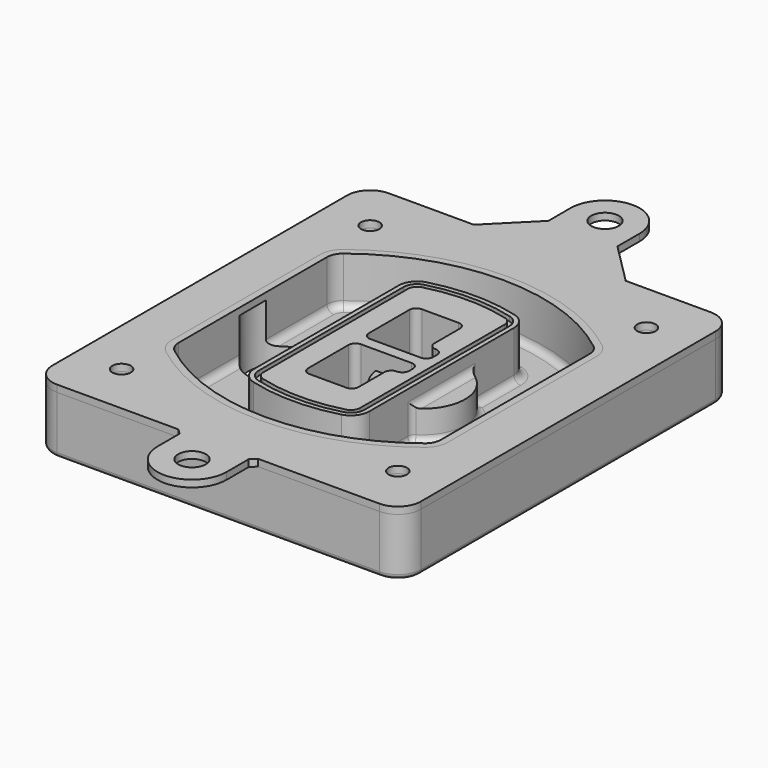
from build123d import *

# Parameters (mm, degrees)
F0_R      = 4
F1_DEPTH  = 25
F2_DEPTH  = 3
F3_DEPTH  = 18
F5_DEPTH  = 21
F6_DEPTH  = 2
F8_DEPTH  = 20
F9_DEPTH  = 16
F10_DEPTH = 25
F7_R      = 6
F7_R_2    = 4
F11_DEPTH = 6
F13_DEPTH = 9
F14_R     = 3
F15_R     = 2
F16_R     = 6
F16_R_2   = 4
F17_DEPTH = 3


with BuildPart() as f1:
    # F0 (on Top) → F1 (new body)
    with BuildSketch(Plane.XY):
        with BuildLine():
            ThreePointArc((-80, -80), (-77.0710678119, -87.0710678119), (-70, -90))
            Line((-70, -90), (70, -90))
            ThreePointArc((70, -90), (77.0710678119, -87.0710678119), (80, -80))
            Line((80, -80), (80, 80))
            ThreePointArc((80, 80), (77.0710678119, 87.0710678119), (70, 90))
            Line((70, 90), (-70, 90))
            ThreePointArc((-70, 90), (-77.0710678119, 87.0710678119), (-80, 80))
            Line((-80, 80), (-80, -80))
        make_face()
        with Locations((-60, -67.5)):
            Circle(F0_R, mode=Mode.SUBTRACT)
        with Locations((60, -67.5)):
            Circle(F0_R, mode=Mode.SUBTRACT)
        with Locations((-60, 67.5)):
            Circle(F0_R, mode=Mode.SUBTRACT)
        with BuildLine():
            ThreePointArc((-64, 40.2934422872), (-62.5820384798, 46.4328484224), (-58.6153846154, 51.3286200352))
            ThreePointArc((-58.6153846154, 51.3286200352), (0, 71.5), (58.6153846154, 51.3286200352))
            ThreePointArc((58.6153846154, 51.3286200352), (62.5820384798, 46.4328484224), (64, 40.2934422872))
            Line((64, 40.2934422872), (64, -40.2934422872))
            ThreePointArc((64, -40.2934422872), (62.5820384798, -46.4328484224), (58.6153846154, -51.3286200352))
            ThreePointArc((58.6153846154, -51.3286200352), (0, -71.5), (-58.6153846154, -51.3286200352))
            ThreePointArc((-58.6153846154, -51.3286200352), (-62.5820384798, -46.4328484224), (-64, -40.2934422872))
            Line((-64, -40.2934422872), (-64, 40.2934422872))
        make_face(mode=Mode.SUBTRACT)
        with Locations((60, 67.5)):
            Circle(F0_R, mode=Mode.SUBTRACT)
        with BuildLine():
            ThreePointArc((58.6153846154, 51.3286200352), (0, 71.5), (-58.6153846154, 51.3286200352))
            ThreePointArc((-58.6153846154, 51.3286200352), (-62.5820384798, 46.4328484224), (-64, 40.2934422872))
            Line((-64, 40.2934422872), (-64, -40.2934422872))
            ThreePointArc((-64, -40.2934422872), (-62.5820384798, -46.4328484224), (-58.6153846154, -51.3286200352))
            ThreePointArc((-58.6153846154, -51.3286200352), (0, -71.5), (58.6153846154, -51.3286200352))
            ThreePointArc((58.6153846154, -51.3286200352), (62.5820384798, -46.4328484224), (64, -40.2934422872))
            Line((64, -40.2934422872), (64, 40.2934422872))
            ThreePointArc((64, 40.2934422872), (62.5820384798, 46.4328484224), (58.6153846154, 51.3286200352))
        make_face()
        with BuildLine():
            Line((-60, -40.2934422872), (-60, 40.2934422872))
            ThreePointArc((-60, 40.2934422872), (-58.9871703427, 44.6787323838), (-56.1538461538, 48.1757121072))
            ThreePointArc((-56.1538461538, 48.1757121072), (0, 67.5), (56.1538461538, 48.1757121072))
            ThreePointArc((56.1538461538, 48.1757121072), (58.9871703427, 44.6787323838), (60, 40.2934422872))
            Line((60, 40.2934422872), (60, -40.2934422872))
            ThreePointArc((60, -40.2934422872), (58.9871703427, -44.6787323838), (56.1538461538, -48.1757121072))
            ThreePointArc((56.1538461538, -48.1757121072), (0, -67.5), (-56.1538461538, -48.1757121072))
            ThreePointArc((-56.1538461538, -48.1757121072), (-58.9871703427, -44.6787323838), (-60, -40.2934422872))
        make_face(mode=Mode.SUBTRACT)
        with BuildLine():
            ThreePointArc((-56.1538461538, 48.1757121072), (-58.9871703427, 44.6787323838), (-60, 40.2934422872))
            Line((-60, 40.2934422872), (-60, -40.2934422872))
            ThreePointArc((-60, -40.2934422872), (-58.9871703427, -44.6787323838), (-56.1538461538, -48.1757121072))
            ThreePointArc((-56.1538461538, -48.1757121072), (0, -67.5), (56.1538461538, -48.1757121072))
            ThreePointArc((56.1538461538, -48.1757121072), (58.9871703427, -44.6787323838), (60, -40.2934422872))
            Line((60, -40.2934422872), (60, 40.2934422872))
            ThreePointArc((60, 40.2934422872), (58.9871703427, 44.6787323838), (56.1538461538, 48.1757121072))
            ThreePointArc((56.1538461538, 48.1757121072), (0, 67.5), (-56.1538461538, 48.1757121072))
        make_face()
        with BuildLine():
            ThreePointArc((54.3076923077, 45.8110311612), (56.2910192399, 43.3631453548), (57, 40.2934422872))
            Line((57, 40.2934422872), (57, -40.2934422872))
            ThreePointArc((57, -40.2934422872), (56.2910192399, -43.3631453548), (54.3076923077, -45.8110311612))
            ThreePointArc((54.3076923077, -45.8110311612), (0, -64.5), (-54.3076923077, -45.8110311612))
            ThreePointArc((-54.3076923077, -45.8110311612), (-56.2910192399, -43.3631453548), (-57, -40.2934422872))
            Line((-57, -40.2934422872), (-57, 40.2934422872))
            ThreePointArc((-57, 40.2934422872), (-56.2910192399, 43.3631453548), (-54.3076923077, 45.8110311612))
            ThreePointArc((-54.3076923077, 45.8110311612), (0, 64.5), (54.3076923077, 45.8110311612))
        make_face(mode=Mode.SUBTRACT)
        with BuildLine():
            Line((57, -40.2934422872), (57, 40.2934422872))
            ThreePointArc((57, 40.2934422872), (56.2910192399, 43.3631453548), (54.3076923077, 45.8110311612))
            ThreePointArc((54.3076923077, 45.8110311612), (0, 64.5), (-54.3076923077, 45.8110311612))
            ThreePointArc((-54.3076923077, 45.8110311612), (-56.2910192399, 43.3631453548), (-57, 40.2934422872))
            Line((-57, 40.2934422872), (-57, -40.2934422872))
            ThreePointArc((-57, -40.2934422872), (-56.2910192399, -43.3631453548), (-54.3076923077, -45.8110311612))
            ThreePointArc((-54.3076923077, -45.8110311612), (0, -64.5), (54.3076923077, -45.8110311612))
            ThreePointArc((54.3076923077, -45.8110311612), (56.2910192399, -43.3631453548), (57, -40.2934422872))
        make_face()
    extrude(amount=-F1_DEPTH)

    # F0 (on Top) → F2 (join)
    with BuildSketch(Plane.XY):
        with BuildLine():
            ThreePointArc((-56.1538461538, 48.1757121072), (-58.9871703427, 44.6787323838), (-60, 40.2934422872))
            Line((-60, 40.2934422872), (-60, -40.2934422872))
            ThreePointArc((-60, -40.2934422872), (-58.9871703427, -44.6787323838), (-56.1538461538, -48.1757121072))
            ThreePointArc((-56.1538461538, -48.1757121072), (0, -67.5), (56.1538461538, -48.1757121072))
            ThreePointArc((56.1538461538, -48.1757121072), (58.9871703427, -44.6787323838), (60, -40.2934422872))
            Line((60, -40.2934422872), (60, 40.2934422872))
            ThreePointArc((60, 40.2934422872), (58.9871703427, 44.6787323838), (56.1538461538, 48.1757121072))
            ThreePointArc((56.1538461538, 48.1757121072), (0, 67.5), (-56.1538461538, 48.1757121072))
        make_face()
        with BuildLine():
            ThreePointArc((54.3076923077, 45.8110311612), (56.2910192399, 43.3631453548), (57, 40.2934422872))
            Line((57, 40.2934422872), (57, -40.2934422872))
            ThreePointArc((57, -40.2934422872), (56.2910192399, -43.3631453548), (54.3076923077, -45.8110311612))
            ThreePointArc((54.3076923077, -45.8110311612), (0, -64.5), (-54.3076923077, -45.8110311612))
            ThreePointArc((-54.3076923077, -45.8110311612), (-56.2910192399, -43.3631453548), (-57, -40.2934422872))
            Line((-57, -40.2934422872), (-57, 40.2934422872))
            ThreePointArc((-57, 40.2934422872), (-56.2910192399, 43.3631453548), (-54.3076923077, 45.8110311612))
            ThreePointArc((-54.3076923077, 45.8110311612), (0, 64.5), (54.3076923077, 45.8110311612))
        make_face(mode=Mode.SUBTRACT)
    extrude(amount=F2_DEPTH)

    # F0 (on Top) → F3 (cut)
    with BuildSketch(Plane.XY):
        with BuildLine():
            Line((57, -40.2934422872), (57, 40.2934422872))
            ThreePointArc((57, 40.2934422872), (56.2910192399, 43.3631453548), (54.3076923077, 45.8110311612))
            ThreePointArc((54.3076923077, 45.8110311612), (0, 64.5), (-54.3076923077, 45.8110311612))
            ThreePointArc((-54.3076923077, 45.8110311612), (-56.2910192399, 43.3631453548), (-57, 40.2934422872))
            Line((-57, 40.2934422872), (-57, -40.2934422872))
            ThreePointArc((-57, -40.2934422872), (-56.2910192399, -43.3631453548), (-54.3076923077, -45.8110311612))
            ThreePointArc((-54.3076923077, -45.8110311612), (0, -64.5), (54.3076923077, -45.8110311612))
            ThreePointArc((54.3076923077, -45.8110311612), (56.2910192399, -43.3631453548), (57, -40.2934422872))
        make_face()
    extrude(amount=-F3_DEPTH, mode=Mode.SUBTRACT)

    # F4 (on face) → F5 (join, through all)
    with BuildSketch(Plane.XY.offset(3)):
        with BuildLine():
            ThreePointArc((-25, -39.2465276821), (-23.3511545998, -44.1109737193), (-19.0842911877, -46.9702398883))
            ThreePointArc((-19.0842911877, -46.9702398883), (0, -49.5), (19.0842911877, -46.9702398883))
            ThreePointArc((19.0842911877, -46.9702398883), (23.3511545998, -44.1109737193), (25, -39.2465276821))
            Line((25, -39.2465276821), (25, 39.2465276821))
            ThreePointArc((25, 39.2465276821), (23.3511545998, 44.1109737193), (19.0842911877, 46.9702398883))
            ThreePointArc((19.0842911877, 46.9702398883), (0, 49.5), (-19.0842911877, 46.9702398883))
            ThreePointArc((-19.0842911877, 46.9702398883), (-23.3511545998, 44.1109737193), (-25, 39.2465276821))
            Line((-25, 39.2465276821), (-25, -39.2465276821))
        make_face()
        with BuildLine():
            ThreePointArc((18.5632183908, 45.0393118368), (21.7633659499, 42.89486221), (23, 39.2465276821))
            Line((23, 39.2465276821), (23, -39.2465276821))
            ThreePointArc((23, -39.2465276821), (21.7633659499, -42.89486221), (18.5632183908, -45.0393118368))
            ThreePointArc((18.5632183908, -45.0393118368), (0, -47.5), (-18.5632183908, -45.0393118368))
            ThreePointArc((-18.5632183908, -45.0393118368), (-21.7633659499, -42.89486221), (-23, -39.2465276821))
            Line((-23, -39.2465276821), (-23, 39.2465276821))
            ThreePointArc((-23, 39.2465276821), (-21.7633659499, 42.89486221), (-18.5632183908, 45.0393118368))
            ThreePointArc((-18.5632183908, 45.0393118368), (0, 47.5), (18.5632183908, 45.0393118368))
        make_face(mode=Mode.SUBTRACT)
        with BuildLine():
            Line((23, -39.2465276821), (23, 39.2465276821))
            ThreePointArc((23, 39.2465276821), (21.7633659499, 42.89486221), (18.5632183908, 45.0393118368))
            ThreePointArc((18.5632183908, 45.0393118368), (0, 47.5), (-18.5632183908, 45.0393118368))
            ThreePointArc((-18.5632183908, 45.0393118368), (-21.7633659499, 42.89486221), (-23, 39.2465276821))
            Line((-23, 39.2465276821), (-23, -39.2465276821))
            ThreePointArc((-23, -39.2465276821), (-21.7633659499, -42.89486221), (-18.5632183908, -45.0393118368))
            ThreePointArc((-18.5632183908, -45.0393118368), (0, -47.5), (18.5632183908, -45.0393118368))
            ThreePointArc((18.5632183908, -45.0393118368), (21.7633659499, -42.89486221), (23, -39.2465276821))
        make_face()
        with BuildLine():
            ThreePointArc((18.0421455939, 43.1083837852), (20.1755772999, 41.6787507007), (21, 39.2465276821))
            Line((21, 39.2465276821), (21, -39.2465276821))
            ThreePointArc((21, -39.2465276821), (20.1755772999, -41.6787507007), (18.0421455939, -43.1083837852))
            ThreePointArc((18.0421455939, -43.1083837852), (0, -45.5), (-18.0421455939, -43.1083837852))
            ThreePointArc((-18.0421455939, -43.1083837852), (-20.1755772999, -41.6787507007), (-21, -39.2465276821))
            Line((-21, -39.2465276821), (-21, 39.2465276821))
            ThreePointArc((-21, 39.2465276821), (-20.1755772999, 41.6787507007), (-18.0421455939, 43.1083837852))
            ThreePointArc((-18.0421455939, 43.1083837852), (0, 45.5), (18.0421455939, 43.1083837852))
        make_face(mode=Mode.SUBTRACT)
        with BuildLine():
            Line((21, -39.2465276821), (21, 39.2465276821))
            ThreePointArc((21, 39.2465276821), (20.1755772999, 41.6787507007), (18.0421455939, 43.1083837852))
            ThreePointArc((18.0421455939, 43.1083837852), (0, 45.5), (-18.0421455939, 43.1083837852))
            ThreePointArc((-18.0421455939, 43.1083837852), (-20.1755772999, 41.6787507007), (-21, 39.2465276821))
            Line((-21, 39.2465276821), (-21, -39.2465276821))
            ThreePointArc((-21, -39.2465276821), (-20.1755772999, -41.6787507007), (-18.0421455939, -43.1083837852))
            ThreePointArc((-18.0421455939, -43.1083837852), (0, -45.5), (18.0421455939, -43.1083837852))
            ThreePointArc((18.0421455939, -43.1083837852), (20.1755772999, -41.6787507007), (21, -39.2465276821))
        make_face()
        with BuildLine():
            Line((-8, -2.5), (14, -2.5))
            ThreePointArc((14, -2.5), (16.1213203436, -3.3786796564), (17, -5.5))
            Line((17, -5.5), (17, -7.5))
            ThreePointArc((17, -7.5), (16.1213203436, -9.6213203436), (14, -10.5))
            ThreePointArc((14, -10.5), (11.8786796564, -11.3786796564), (11, -13.5))
            Line((11, -13.5), (11, -27.5))
            ThreePointArc((11, -27.5), (10.1213203436, -29.6213203436), (8, -30.5))
            Line((8, -30.5), (-8, -30.5))
            ThreePointArc((-8, -30.5), (-10.1213203436, -29.6213203436), (-11, -27.5))
            Line((-11, -27.5), (-11, -5.5))
            ThreePointArc((-11, -5.5), (-10.1213203436, -3.3786796564), (-8, -2.5))
        make_face(mode=Mode.SUBTRACT)
        with BuildLine():
            ThreePointArc((-8, 2.5), (-10.1213203436, 3.3786796564), (-11, 5.5))
            Line((-11, 5.5), (-11, 27.5))
            ThreePointArc((-11, 27.5), (-10.1213203436, 29.6213203436), (-8, 30.5))
            Line((-8, 30.5), (8, 30.5))
            ThreePointArc((8, 30.5), (10.1213203436, 29.6213203436), (11, 27.5))
            Line((11, 27.5), (11, 13.5))
            ThreePointArc((11, 13.5), (11.8786796564, 11.3786796564), (14, 10.5))
            ThreePointArc((14, 10.5), (16.1213203436, 9.6213203436), (17, 7.5))
            Line((17, 7.5), (17, 5.5))
            ThreePointArc((17, 5.5), (16.1213203436, 3.3786796564), (14, 2.5))
            Line((14, 2.5), (-8, 2.5))
        make_face(mode=Mode.SUBTRACT)
    extrude(amount=-F5_DEPTH)

    # F4 (on face) → F6 (cut)
    with BuildSketch(Plane.XY.offset(3)):
        with BuildLine():
            Line((23, -39.2465276821), (23, 39.2465276821))
            ThreePointArc((23, 39.2465276821), (21.7633659499, 42.89486221), (18.5632183908, 45.0393118368))
            ThreePointArc((18.5632183908, 45.0393118368), (0, 47.5), (-18.5632183908, 45.0393118368))
            ThreePointArc((-18.5632183908, 45.0393118368), (-21.7633659499, 42.89486221), (-23, 39.2465276821))
            Line((-23, 39.2465276821), (-23, -39.2465276821))
            ThreePointArc((-23, -39.2465276821), (-21.7633659499, -42.89486221), (-18.5632183908, -45.0393118368))
            ThreePointArc((-18.5632183908, -45.0393118368), (0, -47.5), (18.5632183908, -45.0393118368))
            ThreePointArc((18.5632183908, -45.0393118368), (21.7633659499, -42.89486221), (23, -39.2465276821))
        make_face()
        with BuildLine():
            ThreePointArc((18.0421455939, 43.1083837852), (20.1755772999, 41.6787507007), (21, 39.2465276821))
            Line((21, 39.2465276821), (21, -39.2465276821))
            ThreePointArc((21, -39.2465276821), (20.1755772999, -41.6787507007), (18.0421455939, -43.1083837852))
            ThreePointArc((18.0421455939, -43.1083837852), (0, -45.5), (-18.0421455939, -43.1083837852))
            ThreePointArc((-18.0421455939, -43.1083837852), (-20.1755772999, -41.6787507007), (-21, -39.2465276821))
            Line((-21, -39.2465276821), (-21, 39.2465276821))
            ThreePointArc((-21, 39.2465276821), (-20.1755772999, 41.6787507007), (-18.0421455939, 43.1083837852))
            ThreePointArc((-18.0421455939, 43.1083837852), (0, 45.5), (18.0421455939, 43.1083837852))
        make_face(mode=Mode.SUBTRACT)
    extrude(amount=-F6_DEPTH, mode=Mode.SUBTRACT)

    # F7 (on face) → F8 (join)
    with BuildSketch(Plane(origin=(0, 0, -25), x_dir=(1, 0, 0), z_dir=(0, 0, -1))):
        with BuildLine():
            ThreePointArc((3.28842436, 0), (16.7567035675, 13.4682792075), (30.224982775, 0))
            Line((30.224982775, 0), (35.224982775, 0))
            ThreePointArc((35.224982775, 0), (16.7567035675, 18.4682792075), (-1.71157564, 0))
            Line((-1.71157564, 0), (3.28842436, 0))
        make_face()
        with BuildLine():
            Line((3.28842436, 0), (30.224982775, 0))
            ThreePointArc((30.224982775, 0), (16.7567035675, 13.4682792075), (3.28842436, 0))
        make_face()
        with BuildLine():
            ThreePointArc((3.28842436, 0), (16.7567035675, -13.4682792075), (30.224982775, 0))
            Line((30.224982775, 0), (3.28842436, 0))
        make_face()
        with BuildLine():
            Line((35.224982775, 0), (30.224982775, 0))
            ThreePointArc((30.224982775, 0), (16.7567035675, -13.4682792075), (3.28842436, 0))
            Line((3.28842436, 0), (-1.71157564, 0))
            ThreePointArc((-1.71157564, 0), (16.7567035675, -18.4682792075), (35.224982775, 0))
        make_face()
    extrude(amount=-F8_DEPTH)

    # F7 (on face) → F9 (cut)
    with BuildSketch(Plane(origin=(0, 0, -25), x_dir=(1, 0, 0), z_dir=(0, 0, -1))):
        with BuildLine():
            Line((3.28842436, 0), (30.224982775, 0))
            ThreePointArc((30.224982775, 0), (16.7567035675, 13.4682792075), (3.28842436, 0))
        make_face()
        with BuildLine():
            ThreePointArc((3.28842436, 0), (16.7567035675, -13.4682792075), (30.224982775, 0))
            Line((30.224982775, 0), (3.28842436, 0))
        make_face()
    extrude(amount=-F9_DEPTH, mode=Mode.SUBTRACT)

    # F7 (on face) → F10 (cut)
    with BuildSketch(Plane(origin=(0, 0, -25), x_dir=(1, 0, 0), z_dir=(0, 0, -1))):
        with BuildLine():
            Line((-59.0318229325, 0), (-32.0952645175, 0))
            ThreePointArc((-32.0952645175, 0), (-45.563543725, 13.4682792075), (-59.0318229325, 0))
        make_face()
        with BuildLine():
            ThreePointArc((-59.0318229325, 0), (-45.563543725, -13.4682792075), (-32.0952645175, 0))
            Line((-32.0952645175, 0), (-59.0318229325, 0))
        make_face()
    extrude(amount=-F10_DEPTH, mode=Mode.SUBTRACT)

    # F7 (on face) → F11 (cut)
    with BuildSketch(Plane(origin=(0, 0, -25), x_dir=(1, 0, 0), z_dir=(0, 0, -1))):
        with Locations((60, -67.5)):
            Circle(F7_R)
        with Locations((60, -67.5)):
            Circle(F7_R_2, mode=Mode.SUBTRACT)
        with Locations((60, -67.5)):
            Circle(F7_R)
        with Locations((60, -67.5)):
            Circle(F7_R_2, mode=Mode.SUBTRACT)
        with Locations((-60, -67.5)):
            Circle(F7_R)
        with Locations((-60, -67.5)):
            Circle(F7_R_2, mode=Mode.SUBTRACT)
        with Locations((-60, -67.5)):
            Circle(F7_R)
        with Locations((-60, -67.5)):
            Circle(F7_R_2, mode=Mode.SUBTRACT)
        with Locations((-60, 67.5)):
            Circle(F7_R)
        with Locations((-60, 67.5)):
            Circle(F7_R_2, mode=Mode.SUBTRACT)
        with Locations((-60, 67.5)):
            Circle(F7_R)
        with Locations((-60, 67.5)):
            Circle(F7_R_2, mode=Mode.SUBTRACT)
        with Locations((60, 67.5)):
            Circle(F7_R)
        with Locations((60, 67.5)):
            Circle(F7_R_2, mode=Mode.SUBTRACT)
        with Locations((60, 67.5)):
            Circle(F7_R)
        with Locations((60, 67.5)):
            Circle(F7_R_2, mode=Mode.SUBTRACT)
    extrude(amount=-F11_DEPTH, mode=Mode.SUBTRACT)

    # F12 (on face) → F13 (cut, through all)
    with BuildSketch(Plane(origin=(0, 0, -9), x_dir=(1, 0, 0), z_dir=(0, 0, -1))):
        with BuildLine():
            Line((11, 13.5), (11, 17.5481537753))
            ThreePointArc((11, 17.5481537753), (2.5696536419, 11.8239143813), (-1.5415842455, 2.5))
            Line((-1.5415842455, 2.5), (3.5224848595, 2.5))
            ThreePointArc((3.5224848595, 2.5), (6.1857188154, 8.3455872281), (11.2536447004, 12.2927168648))
            ThreePointArc((11.2536447004, 12.2927168648), (11.0640958889, 12.8831798879), (11, 13.5))
        make_face()
        with BuildLine():
            ThreePointArc((11.2536447004, -12.2927168648), (6.1857188154, -8.3455872281), (3.5224848595, -2.5))
            Line((3.5224848595, -2.5), (-1.5415842455, -2.5))
            ThreePointArc((-1.5415842455, -2.5), (2.5696536419, -11.8239143813), (11, -17.5481537753))
            Line((11, -17.5481537753), (11, -13.5))
            ThreePointArc((11, -13.5), (11.0640958889, -12.8831798879), (11.2536447004, -12.2927168648))
        make_face()
        with BuildLine():
            ThreePointArc((11.2536447004, 12.2927168648), (6.1857188154, 8.3455872281), (3.5224848595, 2.5))
            Line((3.5224848595, 2.5), (14, 2.5))
            ThreePointArc((14, 2.5), (16.1213203436, 3.3786796564), (17, 5.5))
            Line((17, 5.5), (17, 7.5))
            ThreePointArc((17, 7.5), (16.1213203436, 9.6213203436), (14, 10.5))
            ThreePointArc((14, 10.5), (12.3601599782, 10.9878446101), (11.2536447004, 12.2927168648))
        make_face()
        with BuildLine():
            Line((14, -2.5), (3.5224848595, -2.5))
            ThreePointArc((3.5224848595, -2.5), (6.1857188154, -8.3455872281), (11.2536447004, -12.2927168648))
            ThreePointArc((11.2536447004, -12.2927168648), (12.3601599782, -10.9878446101), (14, -10.5))
            ThreePointArc((14, -10.5), (16.1213203436, -9.6213203436), (17, -7.5))
            Line((17, -7.5), (17, -5.5))
            ThreePointArc((17, -5.5), (16.1213203436, -3.3786796564), (14, -2.5))
        make_face()
    extrude(amount=F13_DEPTH, mode=Mode.SUBTRACT)

    # F14
    f14_edges = [f1.edges().sort_by_distance(p)[0] for p in [
        (-57, -23.703476, -18),
        (-57, 23.703476, -18),
        (25, 0, -5),
        (25, 16.526506, -11.5),
        (25, -16.526506, -11.5),
        (25, -27.886517, -18),
        (35.224983, 0, -18),
    ]]
    fillet(f14_edges, radius=F14_R)

    # F15
    f15_edges = [f1.edges().sort_by_distance(p)[0] for p in [
        (0, -90, -25),
    ]]
    fillet(f15_edges, radius=F15_R)


with BuildPart() as f17:
    # F16 (on face) → F17 (new body, through all)
    with BuildSketch(Plane.XY):
        with BuildLine():
            Line((-14.9998761609, 108), (-32.9998761609, 90))
            Line((-32.9998761609, 90), (33, 90))
            Line((33, 90), (15, 108))
            Line((15, 108), (15, 120))
            ThreePointArc((15, 120), (-0.0304761119, 134.9999690402), (-14.9998761609, 119.939047902))
            Line((-14.9998761609, 119.939047902), (-14.9998761609, 108))
        make_face()
        with Locations((0, 120)):
            Circle(F16_R, mode=Mode.SUBTRACT)
        with BuildLine():
            Line((33, 90), (-32.9998761609, 90))
            Line((-32.9998761609, 90), (-70, 90))
            ThreePointArc((-70, 90), (-77.0710678119, 87.0710678119), (-80, 80))
            Line((-80, 80), (-80, -80))
            ThreePointArc((-80, -80), (-77.0710678119, -87.0710678119), (-70, -90))
            Line((-70, -90), (-17.2498761609, -90))
            Line((-17.2498761609, -90), (17.25, -90))
            Line((17.25, -90), (70, -90))
            ThreePointArc((70, -90), (77.0710678119, -87.0710678119), (80, -80))
            Line((80, -80), (80, 80))
            ThreePointArc((80, 80), (77.0710678119, 87.0710678119), (70, 90))
            Line((70, 90), (33, 90))
        make_face()
        with Locations((-60, -67.5)):
            Circle(F16_R_2, mode=Mode.SUBTRACT)
        with Locations((60, -67.5)):
            Circle(F16_R_2, mode=Mode.SUBTRACT)
        with BuildLine():
            ThreePointArc((-60, 40.2934422872), (-58.9871703427, 44.6787323838), (-56.1538461538, 48.1757121072))
            ThreePointArc((-56.1538461538, 48.1757121072), (0, 67.5), (56.1538461538, 48.1757121072))
            ThreePointArc((56.1538461538, 48.1757121072), (58.9871703427, 44.6787323838), (60, 40.2934422872))
            Line((60, 40.2934422872), (60, -40.2934422872))
            ThreePointArc((60, -40.2934422872), (58.9871703427, -44.6787323838), (56.1538461538, -48.1757121072))
            ThreePointArc((56.1538461538, -48.1757121072), (0, -67.5), (-56.1538461538, -48.1757121072))
            ThreePointArc((-56.1538461538, -48.1757121072), (-58.9871703427, -44.6787323838), (-60, -40.2934422872))
            Line((-60, -40.2934422872), (-60, 40.2934422872))
        make_face(mode=Mode.SUBTRACT)
        with Locations((-60, 67.5)):
            Circle(F16_R_2, mode=Mode.SUBTRACT)
        with Locations((60, 67.5)):
            Circle(F16_R_2, mode=Mode.SUBTRACT)
        with BuildLine():
            Line((17.25, -90), (-17.2498761609, -90))
            Line((-17.2498761609, -90), (-14.9998761609, -92.25))
            Line((-14.9998761609, -92.25), (-14.9998761609, -104.189047902))
            ThreePointArc((-14.9998761609, -104.189047902), (-0.0304761119, -119.2499690402), (15, -104.25))
            Line((15, -104.25), (15, -92.25))
            Line((15, -92.25), (17.25, -90))
        make_face()
        with Locations((0, -104.25)):
            Circle(F16_R, mode=Mode.SUBTRACT)
        with BuildLine():
            Line((33, 90), (-32.9998761609, 90))
            Line((-32.9998761609, 90), (-70, 90))
            ThreePointArc((-70, 90), (-77.0710678119, 87.0710678119), (-80, 80))
            Line((-80, 80), (-80, -80))
            ThreePointArc((-80, -80), (-77.0710678119, -87.0710678119), (-70, -90))
            Line((-70, -90), (-17.2498761609, -90))
            Line((-17.2498761609, -90), (17.25, -90))
            Line((17.25, -90), (70, -90))
            ThreePointArc((70, -90), (77.0710678119, -87.0710678119), (80, -80))
            Line((80, -80), (80, 80))
            ThreePointArc((80, 80), (77.0710678119, 87.0710678119), (70, 90))
            Line((70, 90), (33, 90))
        make_face()
        with Locations((-60, -67.5)):
            Circle(F16_R_2, mode=Mode.SUBTRACT)
        with Locations((60, -67.5)):
            Circle(F16_R_2, mode=Mode.SUBTRACT)
        with BuildLine():
            ThreePointArc((-60, 40.2934422872), (-58.9871703427, 44.6787323838), (-56.1538461538, 48.1757121072))
            ThreePointArc((-56.1538461538, 48.1757121072), (0, 67.5), (56.1538461538, 48.1757121072))
            ThreePointArc((56.1538461538, 48.1757121072), (58.9871703427, 44.6787323838), (60, 40.2934422872))
            Line((60, 40.2934422872), (60, -40.2934422872))
            ThreePointArc((60, -40.2934422872), (58.9871703427, -44.6787323838), (56.1538461538, -48.1757121072))
            ThreePointArc((56.1538461538, -48.1757121072), (0, -67.5), (-56.1538461538, -48.1757121072))
            ThreePointArc((-56.1538461538, -48.1757121072), (-58.9871703427, -44.6787323838), (-60, -40.2934422872))
            Line((-60, -40.2934422872), (-60, 40.2934422872))
        make_face(mode=Mode.SUBTRACT)
        with Locations((-60, 67.5)):
            Circle(F16_R_2, mode=Mode.SUBTRACT)
        with Locations((60, 67.5)):
            Circle(F16_R_2, mode=Mode.SUBTRACT)
    extrude(amount=F17_DEPTH)


solid = Compound([f1.part, f17.part])
